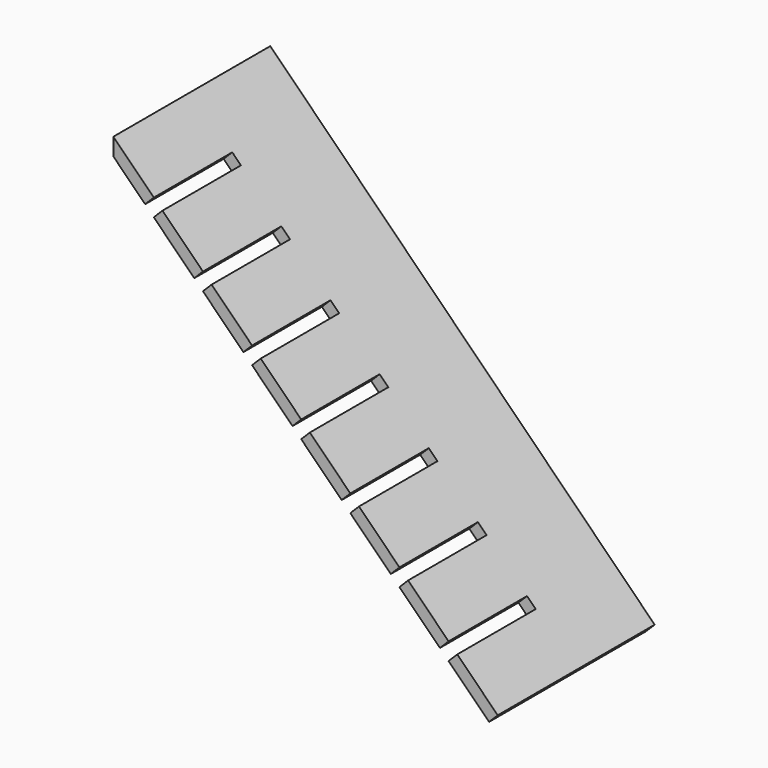
from build123d import *

# Parameters (mm, degrees)
F1_DEPTH = 152.4
F2_W     = 19.05
F2_H     = 152.4
F3_DEPTH = 19.05


with BuildPart() as f1:
    # F0 (on Front) → F1 (new body, symmetric)
    with BuildSketch(Plane.XZ):
        Polygon((-341.4117142798, 817.0427565066), (-341.4117142798, 790.1019881433), (242.3049335897, 206.3853402739), (255.7753177713, 219.8557244555), align=None)
    extrude(amount=F1_DEPTH, both=True)

    # F2 (on face) → F3 (cut)
    with BuildSketch(Plane(origin=(237.8155211134, 0, 237.8155211134), x_dir=(0.7071067812, 0, -0.7071067812), z_dir=(0.7071067812, 0, 0.7071067812))):
        with Locations((-720.7260119889, -76.2)):
            Rectangle(F2_W, F2_H)
        with Locations((-612.7760119889, -76.2)):
            Rectangle(F2_W, F2_H)
        with Locations((-504.8260119889, -76.2)):
            Rectangle(F2_W, F2_H)
        with Locations((-396.8760119889, -76.2)):
            Rectangle(F2_W, F2_H)
        with Locations((-288.9260119889, -76.2)):
            Rectangle(F2_W, F2_H)
        with Locations((-180.9760119889, -76.2)):
            Rectangle(F2_W, F2_H)
        with Locations((-73.0260119889, -76.2)):
            Rectangle(F2_W, F2_H)
    extrude(amount=-F3_DEPTH, mode=Mode.SUBTRACT)


solid = f1.part
